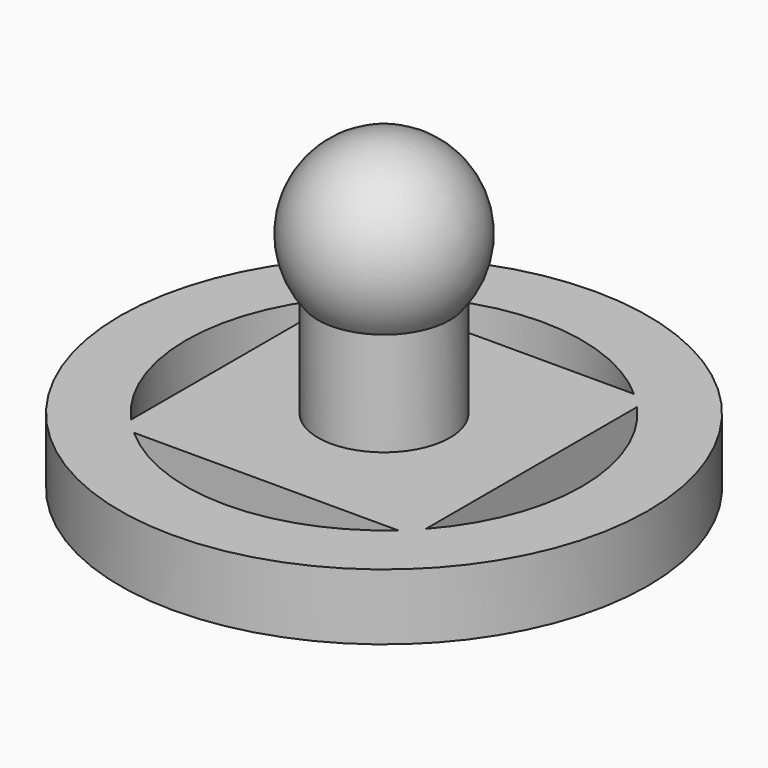
from build123d import *

# Parameters (mm, degrees)
SKETCH001_R       = 20
PAD001_DEPTH      = 5
CYLINDER012_R     = 5
CYLINDER012_DEPTH = 15


with BuildPart() as pad001:
    # Sketch001 → Pad001 (new body)
    with BuildSketch(Plane.XY):
        Circle(SKETCH001_R)
        with BuildLine():
            ThreePointArc((11.18034, -10), (15, 0), (11.18034, 10))
            Line((11.18034, 10), (11.18034, -10))
        make_face(mode=Mode.SUBTRACT)
        with BuildLine():
            ThreePointArc((-11.18034, 10), (-15, 0), (-11.18034, -10))
            Line((-11.18034, 10), (-11.18034, -10))
        make_face(mode=Mode.SUBTRACT)
        with BuildLine():
            ThreePointArc((10, 11.18034), (0, 15), (-10, 11.18034))
            Line((-10, 11.18034), (10, 11.18034))
        make_face(mode=Mode.SUBTRACT)
        with BuildLine():
            ThreePointArc((-10, -11.18034), (0, -15), (10, -11.18034))
            Line((-10, -11.18034), (10, -11.18034))
        make_face(mode=Mode.SUBTRACT)
    extrude(amount=PAD001_DEPTH)


with BuildPart() as sphere001:
    # Sphere001 → Sphere001 (revolve)
    with BuildSketch(Plane(origin=(0, 0, 17), x_dir=(1, 0, 0), z_dir=(0, -1, 0))):
        with BuildLine():
            ThreePointArc((0, -6.5), (6.5, 0), (0, 6.5))
            Line((0, 6.5), (0, -6.5))
        make_face()
    revolve(axis=Axis((0, 0, 17), (0, 0, 1)))


with BuildPart() as piezacirculo:
    # Cylinder012 → Cylinder012 (new body)
    with BuildSketch(Plane.XY):
        Circle(CYLINDER012_R)
    extrude(amount=CYLINDER012_DEPTH)

    # Fusion018: union Pad001, Sphere001
    add(pad001.part)
    add(sphere001.part)


solid = piezacirculo.part
